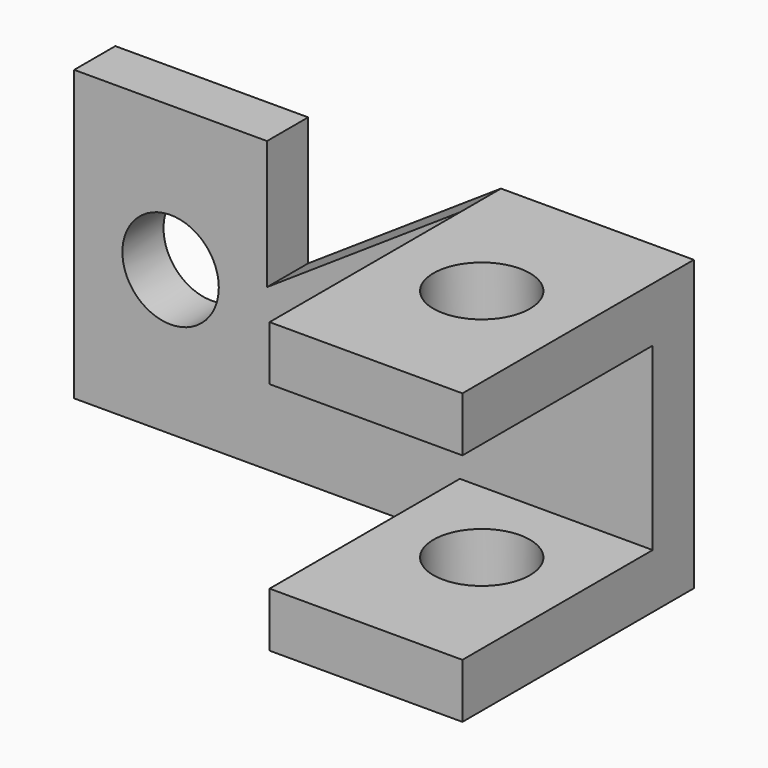
from build123d import *

# Parameters (mm, degrees)
F1_DEPTH = 8
F2_W     = 30
F2_H     = 8.5
F3_DEPTH = 37
F4_R     = 7.5
F5_DEPTH = 45.001
F6_R     = 7.5
F7_DEPTH = 8.001


with BuildPart() as f1:
    # F0 (on Front) → F1 (new body)
    with BuildSketch(Plane.XZ):
        Polygon((-41.746499, -28.969837), (48.253501, -28.969837), (48.253501, 16.030163), (18.253501, 16.030163), (-11.746499, -3.969837), (-11.746499, 16.030163), (-41.746499, 16.030163), align=None)
    extrude(amount=F1_DEPTH)

    # F2 (on face) → F3 (join)
    with BuildSketch(Plane.XZ.offset(8)):
        with Locations((33.253501, 11.780163)):
            Rectangle(F2_W, F2_H)
        with Locations((33.253501, -24.719837)):
            Rectangle(F2_W, F2_H)
    extrude(amount=F3_DEPTH)

    # F4 (on face) → F5 (cut, through all)
    with BuildSketch(Plane.XY.offset(16.030163)):
        with Locations((33.253501, -22.5)):
            Circle(F4_R)
    extrude(amount=-F5_DEPTH, mode=Mode.SUBTRACT)

    # F6 (on face) → F7 (cut, through all)
    with BuildSketch(Plane.XZ.offset(8)):
        with Locations((-26.746499, -6.469837)):
            Circle(F6_R)
    extrude(amount=-F7_DEPTH, mode=Mode.SUBTRACT)


solid = f1.part
